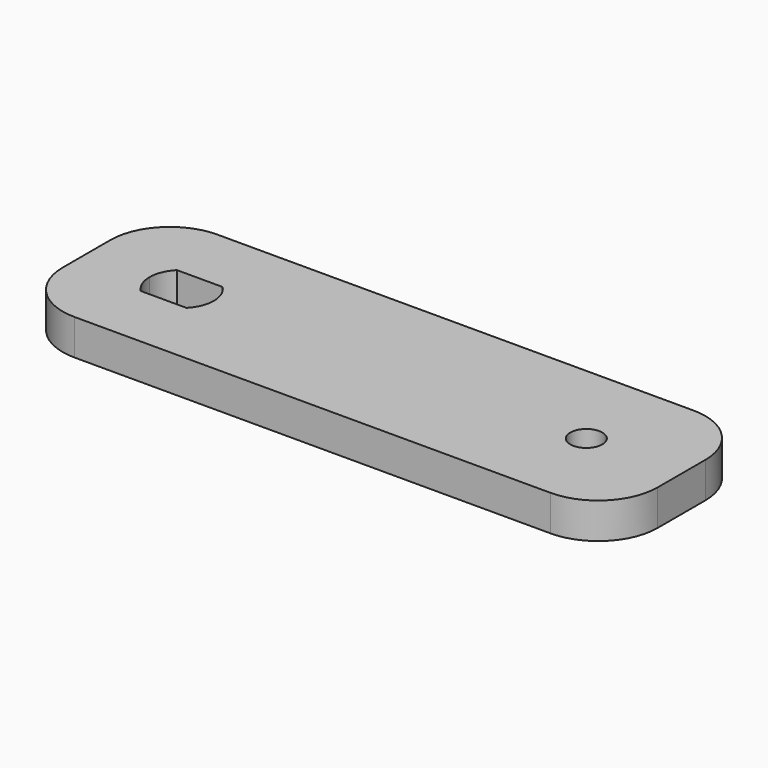
from build123d import *

# Parameters (mm, degrees)
F1_DEPTH = 3


with BuildPart() as f1:
    # F0 (on Top) → F1 (new body)
    with BuildSketch(Plane.XY):
        with BuildLine():
            Line((45, 0), (5, 0))
            ThreePointArc((5, 0), (1.464466, -1.464466), (0, -5))
            Line((0, -5), (0, -7.5))
            Line((0, -7.5), (5.3, -7.5))
            ThreePointArc((5.3, -7.5), (5.503052, -6.472746), (6.081667, -5.6))
            Line((6.081667, -5.6), (9.918333, -5.6))
            ThreePointArc((9.918333, -5.6), (10.496948, -6.472746), (10.7, -7.5))
            Line((10.7, -7.5), (40.65, -7.5))
            ThreePointArc((40.65, -7.5), (42, -6.15), (43.35, -7.5))
            Line((43.35, -7.5), (50, -7.5))
            Line((50, -7.5), (50, -5))
            ThreePointArc((50, -5), (48.535534, -1.464466), (45, 0))
        make_face()
        with BuildLine():
            Line((5.3, -7.5), (0, -7.5))
            Line((0, -7.5), (0, -10))
            ThreePointArc((0, -10), (1.464466, -13.535534), (5, -15))
            Line((5, -15), (45, -15))
            ThreePointArc((45, -15), (48.535534, -13.535534), (50, -10))
            Line((50, -10), (50, -7.5))
            Line((50, -7.5), (43.35, -7.5))
            ThreePointArc((43.35, -7.5), (42, -8.85), (40.65, -7.5))
            Line((40.65, -7.5), (10.7, -7.5))
            ThreePointArc((10.7, -7.5), (10.496948, -8.527254), (9.918333, -9.4))
            Line((9.918333, -9.4), (6.081667, -9.4))
            ThreePointArc((6.081667, -9.4), (5.503052, -8.527254), (5.3, -7.5))
        make_face()
    extrude(amount=F1_DEPTH)


solid = f1.part
